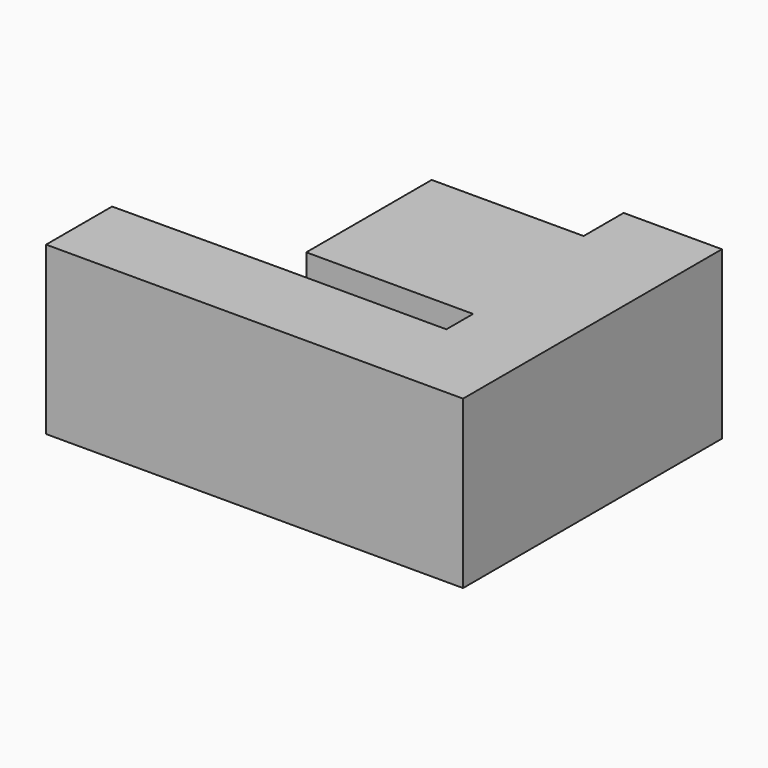
from build123d import *

# Parameters (mm, degrees)
F1_DEPTH = 10


with BuildPart() as f1:
    # F0 (on Top) → F1 (new body)
    with BuildSketch(Plane.XY):
        Polygon((-5, 7), (0, 7), (0, 19.4), (-5.892592, 19.4), (-5.892592, 16.4), (-13.892592, 16.4), (-15, 16.4), (-15, 7), align=None)
        Polygon((-15, 0), (0, 0), (0, 7), (-5, 7), (-5, 5), (-15, 5), (-25, 4.945532), (-25, 0), align=None)
    extrude(amount=F1_DEPTH)


solid = f1.part
